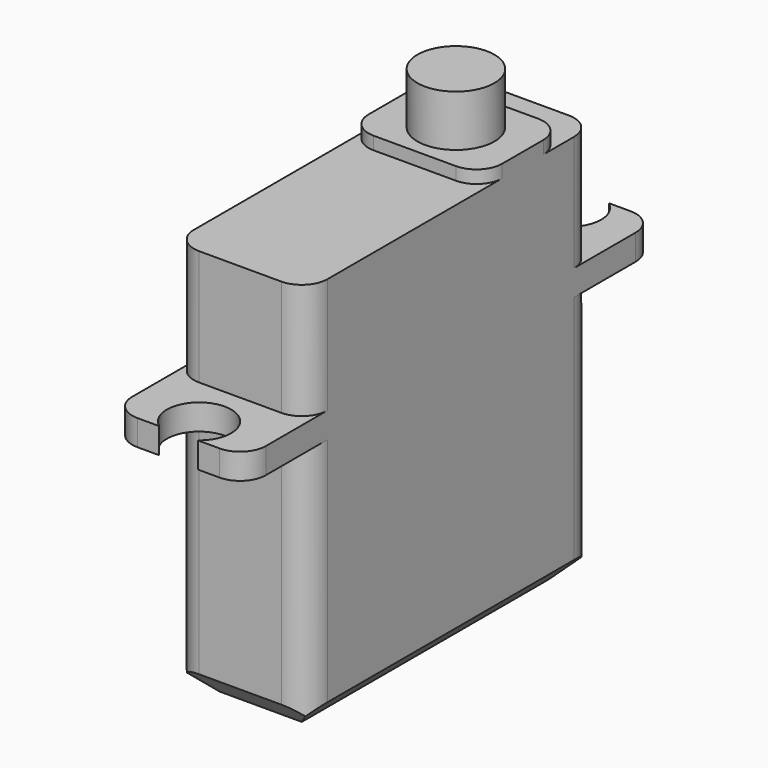
from build123d import *

# Parameters (mm, degrees)
F0_W     = 4
F0_H     = 0.5
F1_DEPTH = 2.6
F2_R     = 1.5
F3_DEPTH = 2
F4_SIZE  = 1
F5_R     = 1
F6_R     = 1.25
F7_DEPTH = 25


with BuildPart() as f1:
    # F0 (on Right) → F1 (new body, symmetric)
    with BuildSketch(Plane.YZ):
        Polygon((0, 0), (0, 10), (3, 10), (3, 11), (0, 11), (0, 15.5), (-1.5, 15.5), (-5.5, 15.5), (-14, 15.5), (-14, 11), (-17, 11), (-17, 10), (-14, 10), (-14, 0), align=None)
        with Locations((-3.5, 15.75)):
            Rectangle(F0_W, F0_H)
    extrude(amount=F1_DEPTH, both=True)

    # F2 (on face) → F3 (join)
    with BuildSketch(Plane.XY.offset(16)):
        with Locations((0, -3.5)):
            Circle(F2_R)
    extrude(amount=F3_DEPTH)

    # F4
    f4_edges = [f1.edges().sort_by_distance(p)[0] for p in [
        (-2.6, -7, 0),
        (0, 0, 0),
        (2.6, -7, 0),
        (0, -14, 0),
    ]]
    chamfer(f4_edges, length=F4_SIZE)

    # F5
    f5_edges = [f1.edges().sort_by_distance(p)[0] for p in [
        (2.6, 0, 5.5),
        (2.6, 0, 13.25),
        (-2.6, 0, 13.25),
        (2.6, -1.5, 15.75),
        (2.6, -5.5, 15.75),
        (-2.6, -5.5, 15.75),
        (-2.6, -1.5, 15.75),
        (2.6, -14, 13.25),
        (-2.6, -14, 13.25),
        (2.6, -17, 10.5),
        (-2.6, -17, 10.5),
        (2.6, -14, 5.5),
        (-2.6, -14, 5.5),
        (2.6, 3, 10.5),
        (-2.6, 3, 10.5),
        (-2.6, 0, 5.5),
    ]]
    fillet(f5_edges, radius=F5_R)

    # F6 (on face) → F7 (cut)
    with BuildSketch(Plane.XY.offset(11)):
        with Locations((0, 2)):
            Circle(F6_R)
        with Locations((0, -16)):
            Circle(F6_R)
    extrude(amount=-F7_DEPTH, mode=Mode.SUBTRACT)


solid = f1.part
